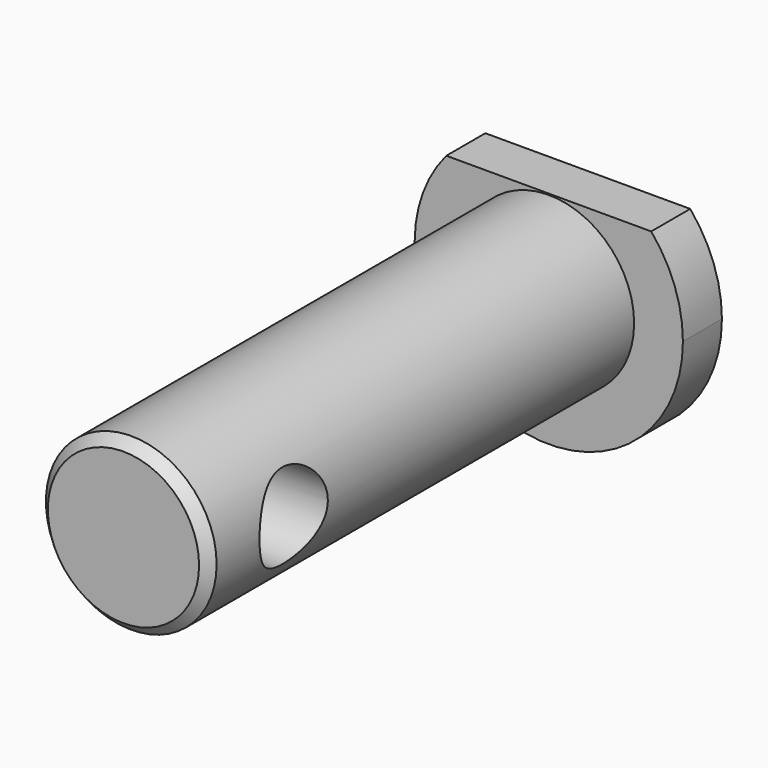
from build123d import *

# Parameters (mm, degrees)
F0_R          = 7
F1_DEPTH      = 4
F2_DEPTH      = 47.6
F3_SIZE       = 0.8
F4_R          = 3.5
F5_DEPTH      = 14.3
F5_DEPTH_BACK = 14.4


with BuildPart() as f1:
    # F0 (on Front) → F1 (new body)
    with BuildSketch(Plane.XZ):
        with BuildLine():
            ThreePointArc((-8.401786, 7.1), (-3.780235, -10.330045), (11, 0))
            ThreePointArc((11, 0), (10.330045, 3.780235), (8.401786, 7.1))
            Line((8.401786, 7.1), (-8.401786, 7.1))
        make_face()
        Circle(F0_R, mode=Mode.SUBTRACT)
    extrude(amount=F1_DEPTH)

    # F0 (on Front) → F2 (join)
    with BuildSketch(Plane.XZ):
        Circle(F0_R)
    extrude(amount=F2_DEPTH)

    # F3
    f3_edges = [f1.edges().sort_by_distance(p)[0] for p in [
        (-7, -47.6, 0),
    ]]
    chamfer(f3_edges, length=F3_SIZE)

    # F4 (on Right) → F5 (cut, two sides)
    with BuildSketch(Plane.YZ) as f5_sk:
        with Locations((-38.9, 0)):
            Circle(F4_R)
    extrude(amount=F5_DEPTH, mode=Mode.SUBTRACT)
    extrude(f5_sk.sketch, amount=-F5_DEPTH_BACK, mode=Mode.SUBTRACT)


solid = f1.part
